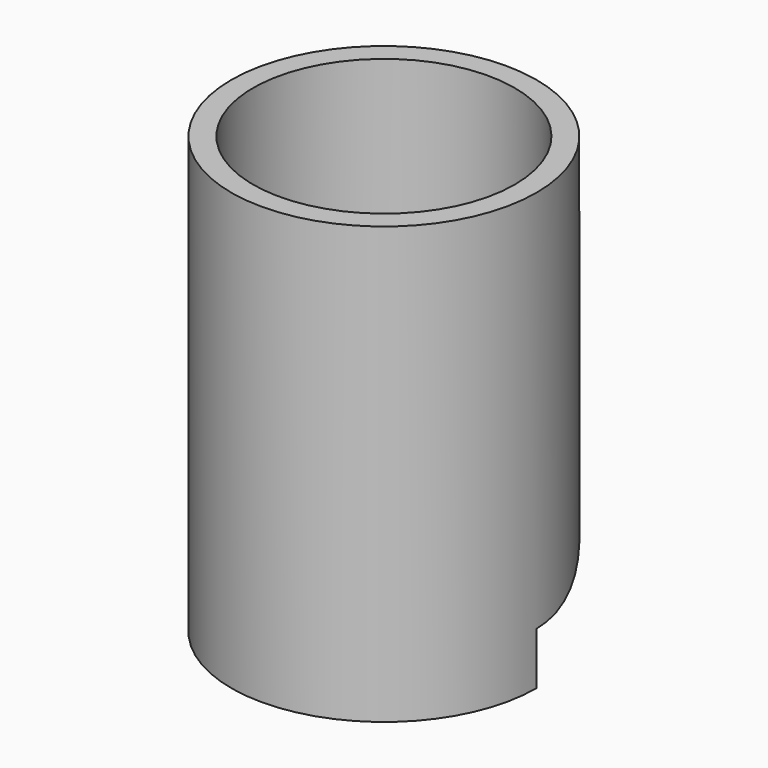
from build123d import *

# Parameters (mm, degrees)
F0_R     = 2.2225
F1_DEPTH = 6.35
F2_R     = 1.905
F3_DEPTH = 4.572
F5_DEPTH = 2.2235


with BuildPart() as f1:
    # F0 (on Top) → F1 (new body)
    with BuildSketch(Plane.XY):
        Circle(F0_R)
    extrude(amount=F1_DEPTH)

    # F2 (on face) → F3 (cut)
    with BuildSketch(Plane.XY.offset(6.35)):
        Circle(F2_R)
    extrude(amount=-F3_DEPTH, mode=Mode.SUBTRACT)

    # F4 (on Front) → F5 (cut, through all)
    with BuildSketch(Plane.XZ):
        Polygon((0, 2.811728), (-2.906317, 0), (3.048, 0), align=None)
    extrude(amount=-F5_DEPTH, mode=Mode.SUBTRACT)


solid = f1.part
